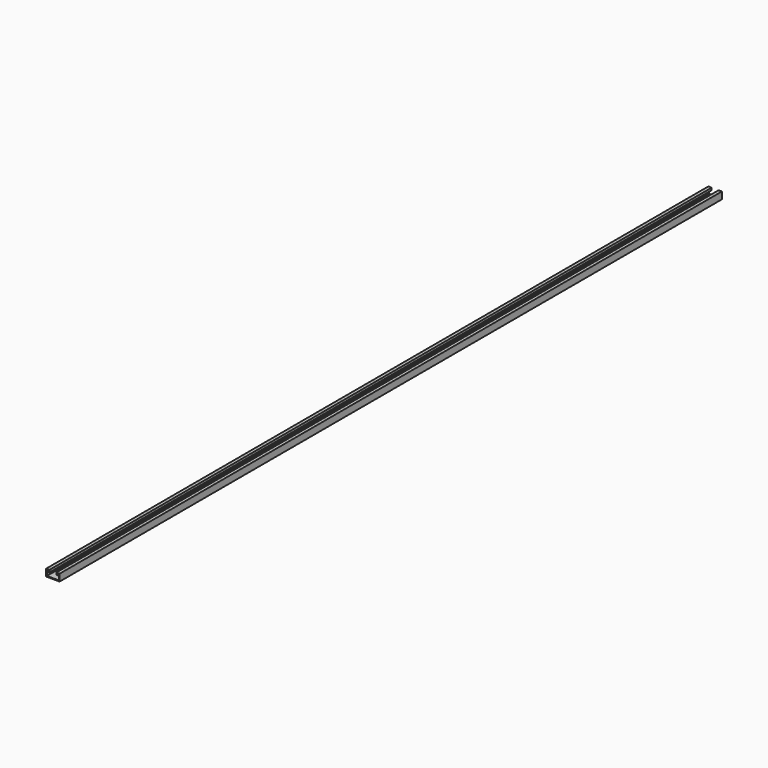
from build123d import *

# Parameters (mm, degrees)
PAD_DEPTH    = 2500
SKETCH_R     = 8
SKETCH_R_2   = 3.05
POCKET_DEPTH = 2.5


with BuildPart() as part:
    # Sketch002 → Pad (new body)
    with BuildSketch(Plane.XZ):
        Polygon((-20.5, 0), (-20.5, 21), (-10.5, 21), (-10.5, 14), (-13, 14), (-13, 18.5), (-18, 18.5), (-18, 2.5), (18, 2.5), (18, 18.5), (13, 18.5), (13, 14), (10.5, 14), (10.5, 21), (20.5, 21), (20.5, 0), align=None)
    extrude(amount=PAD_DEPTH)

    # Sketch (on Face10 of Pad) → Pocket (cut)
    with BuildSketch(Plane(origin=(0, 0, 2.5), x_dir=(-1, 0, 0), z_dir=(0, 0, 1))):
        with Locations((0, 30)):
            Circle(SKETCH_R)
        with Locations((0, 2466.95)):
            Circle(SKETCH_R_2)
        with Locations((0, 2396.95)):
            Circle(SKETCH_R_2)
    extrude(amount=-POCKET_DEPTH, mode=Mode.SUBTRACT)


solid = part.part
